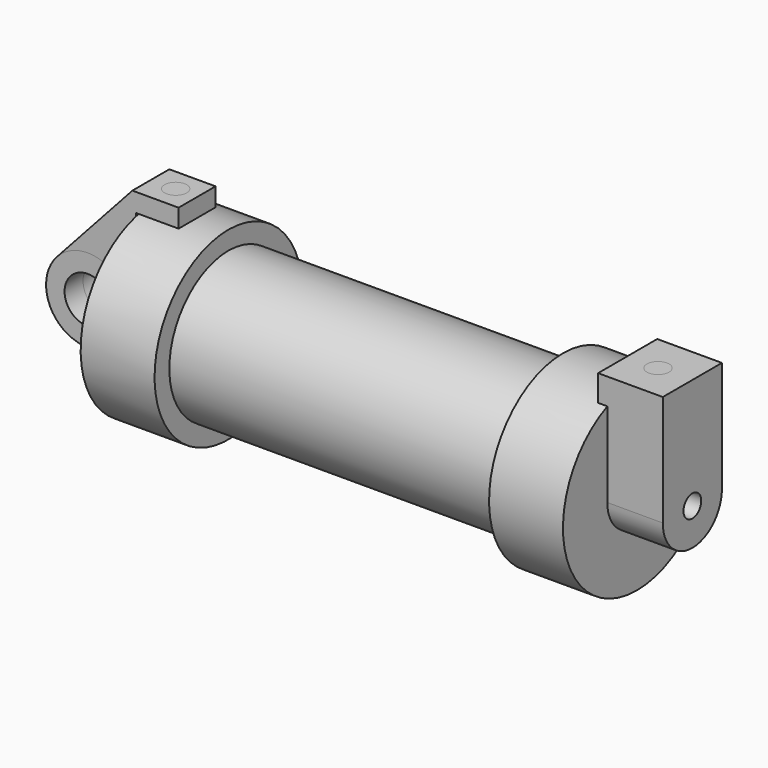
from build123d import *

# Parameters (mm, degrees)
F0_W          = 5.842
F0_H          = 12.7
F0_R          = 3.175
F2_DEPTH      = 3.175
F3_DEPTH      = 3.175
F4_R          = 1.524
F5_DEPTH      = 7.62
F5_DEPTH_BACK = 1.27
F7_R          = 1.524
F8_DEPTH      = 17.78
F9_DEPTH      = 17.78
F10_DEPTH     = 10.414


with BuildPart() as f1:
    # F0 (on Front) → F1 (revolve)
    with BuildSketch(Plane.XZ):
        Polygon((5.842, 12.7), (5.842, 0), (66.294, 0), (66.294, 12.7), (56.134, 12.7), (56.134, 10.16), (10.16, 10.16), (10.16, 12.7), align=None)
        with Locations((2.921, 6.35)):
            Rectangle(F0_W, F0_H)
    revolve(axis=Axis((33.147, 0, 0), (-1, 0, 0)))

    # F0 (on Front) → F2 (join, symmetric)
    with BuildSketch(Plane.XZ):
        with BuildLine():
            ThreePointArc((-8.1826630726, -5.5069827884), (-3.1957909266, -4.5493385486), (-0.9398, 0))
            ThreePointArc((-0.9398, 0), (-4.5919612295, 5.3297205562), (-10.8806298187, 3.8475430269))
            ThreePointArc((-10.8806298187, 3.8475430269), (-12.1459778134, -1.5837270034), (-8.1826630726, -5.5069827884))
        make_face()
        with Locations((-6.6548, 0)):
            Circle(F0_R, mode=Mode.SUBTRACT)
        with BuildLine():
            Line((5.842, 0), (0, 0))
            Line((0, 0), (-0.9398, 0))
            ThreePointArc((-0.9398, 0), (-3.1957909266, -4.5493385486), (-8.1826630726, -5.5069827884))
            Line((-8.1826630726, -5.5069827884), (5.842, -9.398))
            Line((5.842, -9.398), (5.842, 0))
        make_face()
    extrude(amount=F2_DEPTH, both=True)

    # F4 (on face) → F5 (join, two sides)
    with BuildSketch(Plane.YZ.offset(66.294)) as f5_sk:
        with BuildLine():
            ThreePointArc((-5.08, 0), (0, -5.08), (5.08, 0))
            ThreePointArc((5.08, 0), (0, 5.08), (-5.08, 0))
        make_face()
        Circle(F4_R, mode=Mode.SUBTRACT)
        with BuildLine():
            ThreePointArc((-5.08, 0), (0, 5.08), (5.08, 0))
            Line((5.08, 0), (5.08, 15.24))
            Line((5.08, 15.24), (-5.08, 15.24))
            Line((-5.08, 15.24), (-5.08, 0))
        make_face()
    extrude(amount=F5_DEPTH)
    extrude(f5_sk.sketch, amount=-F5_DEPTH_BACK)


with BuildPart() as f3:
    # F0 (on Front) → F3 (new body, symmetric)
    with BuildSketch(Plane.XZ):
        with BuildLine():
            Line((-0.9398, 0), (0, 0))
            Line((0, 0), (0, 12.7))
            Line((0, 12.7), (5.842, 12.7))
            Line((5.842, 12.7), (5.842, 15.24))
            Line((5.842, 15.24), (-0.508, 15.24))
            Line((-0.508, 15.24), (-10.8806298187, 3.8475430269))
            ThreePointArc((-10.8806298187, 3.8475430269), (-4.5919612295, 5.3297205562), (-0.9398, 0))
        make_face()
    extrude(amount=F3_DEPTH, both=True)


with BuildPart() as f8:
    # F7 (on face) → F8 (new body)
    with BuildSketch(Plane.XY.offset(15.24)):
        with Locations((69.3064853549, -0.1356968132)):
            Circle(F7_R)
    extrude(amount=-F8_DEPTH)


with BuildPart() as f8b:
    # F7 (on face) → F8, piece 2 (new body)
    with BuildSketch(Plane.XY.offset(15.24)):
        with Locations((2.8581172228, 0.0577344617)):
            Circle(F7_R)
    extrude(amount=-F8_DEPTH)


with BuildPart() as f9:
    # F9 (new): a face of the model
    f9_faces = [f8b.part.faces().sort_by_distance(p)[0] for p in [
        (2.8581172228, 0.0577344617, 15.24),
    ]]
    extrude(f9_faces, amount=-F9_DEPTH)


with BuildPart() as f10:
    # F7 (on face) → F10 (new body)
    with BuildSketch(Plane.XY.offset(15.24)):
        with Locations((69.3064853549, -0.1356968132)):
            Circle(F7_R)
    extrude(amount=-F10_DEPTH)


with BuildPart() as f10b:
    # F7 (on face) → F10, piece 2 (new body)
    with BuildSketch(Plane.XY.offset(15.24)):
        with Locations((2.8581172228, 0.0577344617)):
            Circle(F7_R)
    extrude(amount=-F10_DEPTH)


solid = Compound([f1.part, f3.part, f8.part, f8b.part, f9.part, f10.part, f10b.part])
